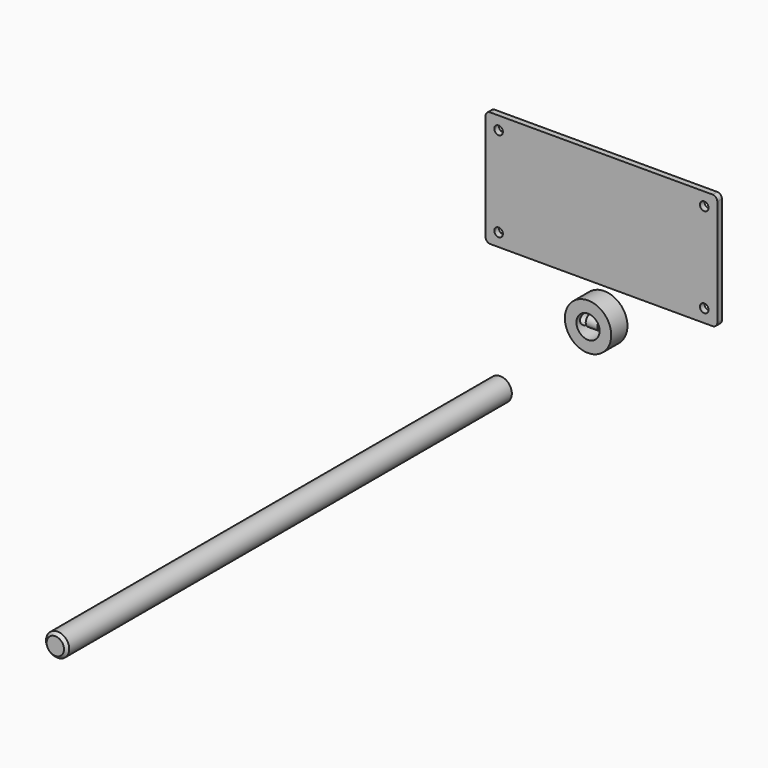
from build123d import *

# Parameters (mm, degrees)
F0_W      = 127
F0_H      = 63.5
F0_R      = 6.35
F1_DEPTH  = 3.175
F2_DEPTH  = 1.5875
F4_R      = 2.54
F3_R      = 2.38125
F5_DEPTH  = 3.176
F6_R      = 6.34746
F7_DEPTH  = 304.8
F8_SIZE   = 1.5875
F9_R      = 12.7
F9_R_2    = 6.35
F10_DEPTH = 5.55625
F12_D     = 6.35
F12_DEPTH = 12.701
F13_R     = 3.175
F14_DEPTH = 3.175


with BuildPart() as f1:
    # F0 (on Front) → F1 (new body)
    with BuildSketch(Plane.XZ):
        with Locations((5.4254960269, 52.6298845063)):
            Rectangle(F0_W, F0_H)
        with Locations((5.4254960269, 52.6298845063)):
            Circle(F0_R, mode=Mode.SUBTRACT)
        with Locations((5.4254960269, 52.6298845063)):
            Circle(F0_R)
    extrude(amount=F1_DEPTH)

    # F0 (on Front) → F2 (cut)
    with BuildSketch(Plane.XZ):
        with Locations((5.4254960269, 52.6298845063)):
            Circle(F0_R)
    extrude(amount=F2_DEPTH, mode=Mode.SUBTRACT)

    # F4
    f4_edges = [f1.edges().sort_by_distance(p)[0] for p in [
        (-58.074504, -1.5875, 84.379885),
        (-58.074504, -1.5875, 20.879885),
        (68.925496, -1.5875, 84.379885),
        (68.925496, -1.5875, 20.879885),
    ]]
    fillet(f4_edges, radius=F4_R)

    # F3 (on face) → F5 (cut, through all)
    with BuildSketch(Plane.XZ.offset(3.175)):
        with Locations((-50.9307539731, 77.2361345063)):
            Circle(F3_R)
        with Locations((61.7817460269, 77.2361345063)):
            Circle(F3_R)
        with Locations((-50.9307539731, 28.0236345063)):
            Circle(F3_R)
        with Locations((61.7817460269, 28.0236345063)):
            Circle(F3_R)
    extrude(amount=-F5_DEPTH, mode=Mode.SUBTRACT)


with BuildPart() as f7:
    # F6 (on Front) → F7 (new body)
    with BuildSketch(Plane.XZ):
        with Locations((-52.5688901544, -49.5186410844)):
            Circle(F6_R)
    extrude(amount=F7_DEPTH)

    # F8
    f8_edges = [f7.edges().sort_by_distance(p)[0] for p in [
        (-58.91635, -304.8, -49.518641),
    ]]
    chamfer(f8_edges, length=F8_SIZE)


with BuildPart() as f10:
    # F9 (on Front) → F10 (new body, symmetric)
    with BuildSketch(Plane.XZ):
        Circle(F9_R)
        Circle(F9_R_2, mode=Mode.SUBTRACT)
    extrude(amount=F10_DEPTH, both=True)

    # F12 (through all, one way)
    with BuildSketch(Plane.YZ):
        with Locations((0, 0)):
            Circle(F12_D / 2)
    extrude(amount=-F12_DEPTH, mode=Mode.SUBTRACT)


with BuildPart() as f14:
    # F13 (on Right) → F14 (new body, symmetric)
    with BuildSketch(Plane.YZ):
        Circle(F13_R)
    extrude(amount=F14_DEPTH, both=True)


solid = Compound([f1.part, f7.part, f10.part, f14.part])
